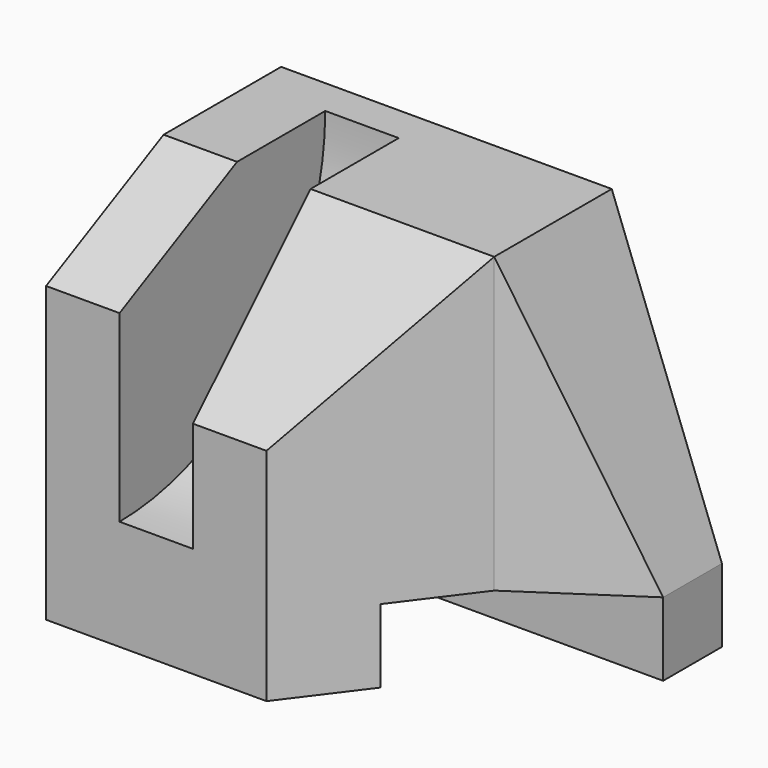
from build123d import *

# Parameters (mm, degrees)
F0_W      = 60
F0_H      = 40
F1_DEPTH  = 50
F3_R      = 35
F4_DEPTH  = 10
F6_DEPTH  = 10
F7_W      = 20
F7_H      = 10
F8_DEPTH  = 60
F10_DEPTH = 50.001
F12_DEPTH = 25
F14_DEPTH = 25


with BuildPart() as f1:
    # F0 (on Top) → F1 (new body)
    with BuildSketch(Plane.XY):
        with Locations((-8.7906960398, 1.5665522108)):
            Rectangle(F0_W, F0_H)
    extrude(amount=F1_DEPTH)

    # F3 (on offset) → F4 (cut)
    with BuildSketch(Plane(origin=(-28.7906960398, 0, 0), x_dir=(0, -1, 0), z_dir=(-1, 0, 0))):
        with Locations((18.4334477892, 50)):
            Circle(F3_R)
    extrude(amount=-F4_DEPTH, mode=Mode.SUBTRACT)

    # F5 (on face) → F6 (cut)
    with BuildSketch(Plane(origin=(-38.7906960398, 0, 0), x_dir=(0, -1, 0), z_dir=(-1, 0, 0))):
        Polygon((18.4334477892, 50), (-1.5665522108, 50), (18.4334477892, 40), align=None)
    extrude(amount=-F6_DEPTH, mode=Mode.SUBTRACT)

    # F7 (on face) → F8 (cut, through all)
    with BuildSketch(Plane.YZ.offset(21.2093039602)):
        with Locations((1.5665522108, 5)):
            Rectangle(F7_W, F7_H)
    extrude(amount=-F8_DEPTH, mode=Mode.SUBTRACT)

    # F9 (on face) → F10 (cut, through all)
    with BuildSketch(Plane.XY.offset(50)):
        Polygon((21.2093039602, -18.4334477892), (21.2093039602, 11.5665522108), (6.2093039602, 1.5665522108), (-8.7906960398, -18.4334477892), align=None)
    extrude(amount=-F10_DEPTH, mode=Mode.SUBTRACT)

    # F11 (on face) → F12 (cut)
    with BuildSketch(Plane(origin=(0, 21.5665522108, 0), x_dir=(-1, 0, 0), z_dir=(0, 1, 0))):
        Polygon((-6.2093039602, 50), (-21.2093039602, 50), (-21.2093039602, 10), align=None)
    extrude(amount=-F12_DEPTH, mode=Mode.SUBTRACT)

    # F13 (on face) → F14 (cut)
    with BuildSketch(Plane(origin=(-18.7906960398, 0, 0), x_dir=(0, -1, 0), z_dir=(-1, 0, 0))):
        Polygon((18.4334477892, 50), (-1.5665522108, 50), (18.4334477892, 30), align=None)
    extrude(amount=-F14_DEPTH, mode=Mode.SUBTRACT)


solid = f1.part
